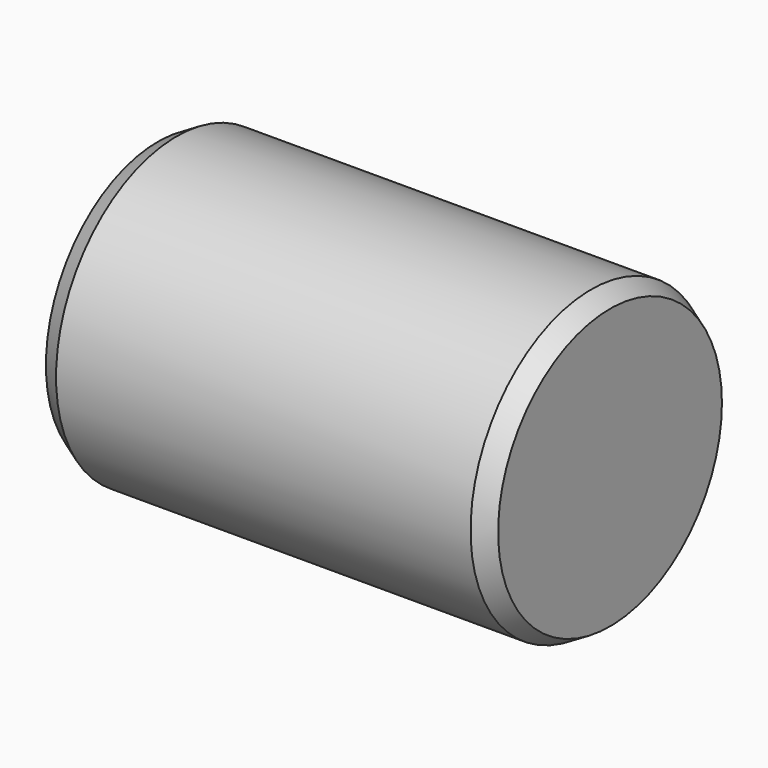
from build123d import *

# Parameters (mm, degrees)
F0_R     = 2
F1_DEPTH = 6
F2_SIZE2 = 0.144338
F2_SIZE  = 0.25


with BuildPart() as f1:
    # F0 (on Right) → F1 (new body)
    with BuildSketch(Plane.YZ):
        Circle(F0_R)
    extrude(amount=F1_DEPTH)

    # F2
    f2_edges = [f1.edges().sort_by_distance(p)[0] for p in [
        (6, -2, 0),
        (0, -2, 0),
    ]]
    chamfer(f2_edges, length=F2_SIZE, length2=F2_SIZE2)


solid = f1.part
